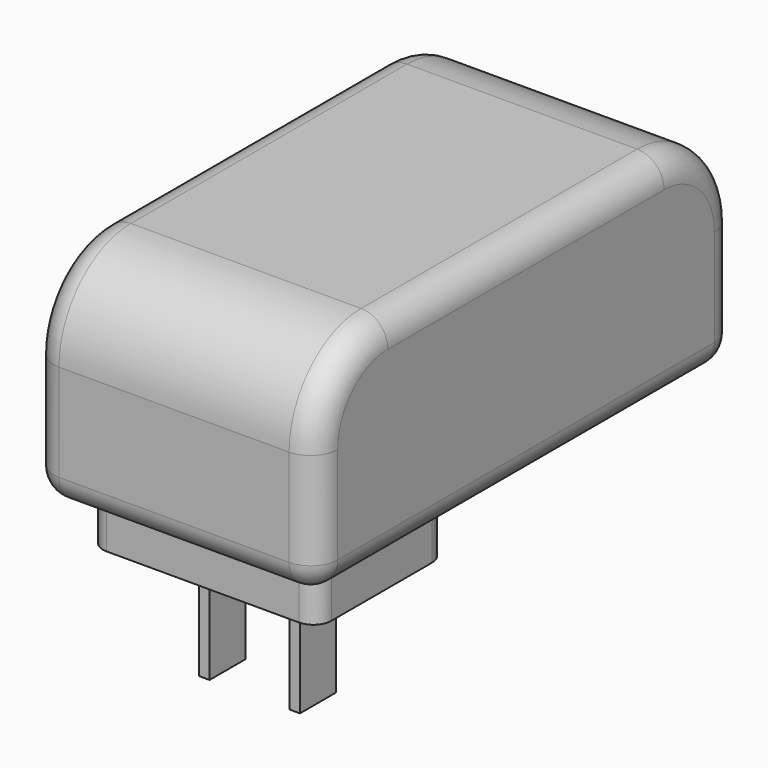
from build123d import *

# Parameters (mm, degrees)
F1_DEPTH = 20.066
F2_R     = 3.81
F3_W     = 32.258
F3_H     = 22.86
F4_DEPTH = 6.604
F5_R     = 2.54
F6_W     = 1.4732
F6_H     = 6.35
F7_DEPTH = 16.764


with BuildPart() as f1:
    # F0 (on Right) → F1 (new body, symmetric)
    with BuildSketch(Plane.YZ):
        with BuildLine():
            Line((-37.084, 17.526), (-37.084, 0))
            Line((-37.084, 0), (37.084, 0))
            Line((37.084, 0), (37.084, 17.526))
            ThreePointArc((37.084, 17.526), (33.364256, 26.506256), (24.384, 30.226))
            Line((24.384, 30.226), (-24.384, 30.226))
            ThreePointArc((-24.384, 30.226), (-33.364256, 26.506256), (-37.084, 17.526))
        make_face()
    extrude(amount=F1_DEPTH, both=True)

    # F2
    f2_edges = [f1.edges().sort_by_distance(p)[0] for p in [
        (20.066, 0, 30.226),
        (-20.066, 0, 30.226),
        (0, -37.084, 0),
        (20.066, 0, 0),
        (-20.066, 0, 0),
        (0, 37.084, 0),
    ]]
    fillet(f2_edges, radius=F2_R)

    # F3 (on face) → F4 (join)
    with BuildSketch(Plane(origin=(0, 0, 0), x_dir=(1, 0, 0), z_dir=(0, 0, -1))):
        with Locations((0, 20.574)):
            Rectangle(F3_W, F3_H)
    extrude(amount=F4_DEPTH)

    # F5
    f5_edges = [f1.edges().sort_by_distance(p)[0] for p in [
        (16.129, -9.144, -3.302),
        (16.129, -32.004, -3.302),
        (-16.129, -32.004, -3.302),
        (-16.129, -9.144, -3.302),
    ]]
    fillet(f5_edges, radius=F5_R)

    # F6 (on face) → F7 (join)
    with BuildSketch(Plane(origin=(0, 0, -6.604), x_dir=(1, 0, 0), z_dir=(0, 0, -1))):
        with Locations((6.3881, 20.574)):
            Rectangle(F6_W, F6_H)
        with Locations((-6.3881, 20.574)):
            Rectangle(F6_W, F6_H)
    extrude(amount=F7_DEPTH)


solid = f1.part
